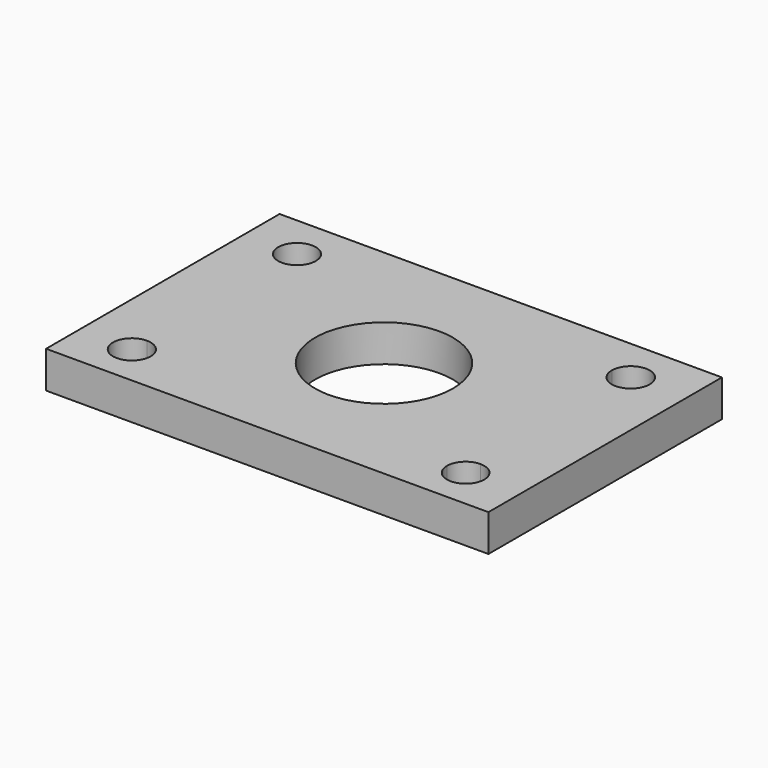
from build123d import *

# Parameters (mm, degrees)
F0_W     = 152.4
F0_H     = 100.554315
F0_R     = 23.747054
F1_DEPTH = 12.7


with BuildPart() as f1:
    # F0 (on Top) → F1 (new body)
    with BuildSketch(Plane.XY):
        with Locations((0.451705, 0.590802)):
            Rectangle(F0_W, F0_H)
        with BuildLine():
            ThreePointArc((-57.500403, 29.078691), (-62.083381, 40.142978), (-51.019094, 35.56))
            Line((-51.019094, 35.56), (50.968102, 35.56))
            ThreePointArc((50.968102, 35.56), (57.500403, 42.092301), (64.032704, 35.56))
            ThreePointArc((64.032704, 35.56), (62.119438, 30.940966), (57.500403, 29.027699))
            Line((57.500403, 29.027699), (57.500403, -29.139609))
            ThreePointArc((57.500403, -29.139609), (62.040305, -31.020098), (63.920794, -35.56))
            ThreePointArc((63.920794, -35.56), (57.500403, -41.980391), (51.080013, -35.56))
            Line((51.080013, -35.56), (-51.003335, -35.56))
            ThreePointArc((-51.003335, -35.56), (-62.094525, -40.154121), (-57.500403, -29.062932))
            Line((-57.500403, -29.062932), (-57.500403, 29.078691))
        make_face(mode=Mode.SUBTRACT)
        with BuildLine():
            Line((50.968102, 35.56), (-51.019094, 35.56))
            ThreePointArc((-51.019094, 35.56), (-52.917426, 30.977022), (-57.500403, 29.078691))
            Line((-57.500403, 29.078691), (-57.500403, -29.062932))
            ThreePointArc((-57.500403, -29.062932), (-52.906282, -30.965879), (-51.003335, -35.56))
            Line((-51.003335, -35.56), (51.080013, -35.56))
            ThreePointArc((51.080013, -35.56), (52.960502, -31.020098), (57.500403, -29.139609))
            Line((57.500403, -29.139609), (57.500403, 29.027699))
            ThreePointArc((57.500403, 29.027699), (52.881369, 30.940966), (50.968102, 35.56))
        make_face()
        with Locations((0.451705, 0.590802)):
            Circle(F0_R, mode=Mode.SUBTRACT)
    extrude(amount=F1_DEPTH)


solid = f1.part
